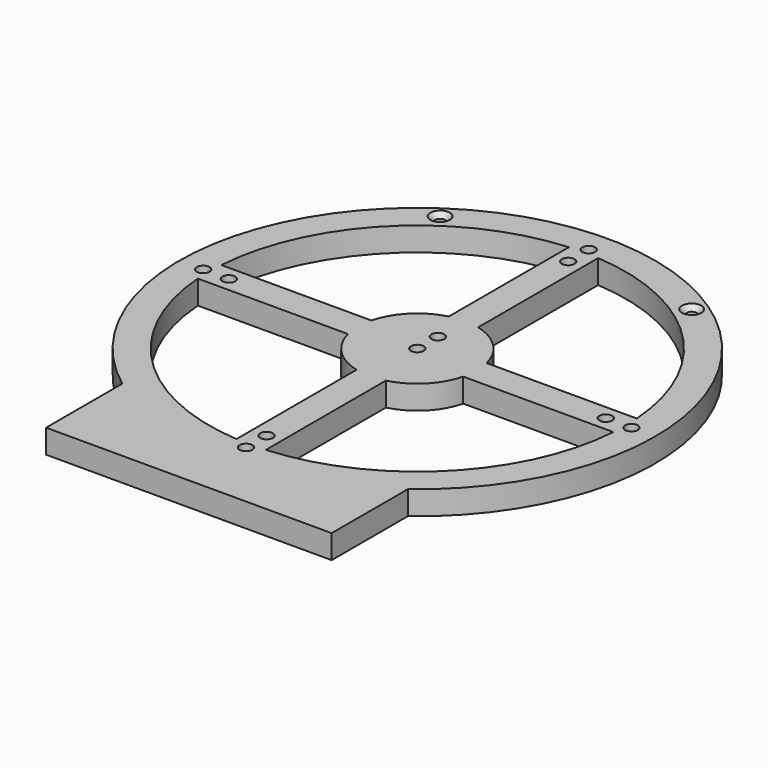
from build123d import *

# Parameters (mm, degrees)
SKETCH_W           = 10
SKETCH_H           = 10
SKETCH_R           = 2.7
PAD_DEPTH          = 10
SKETCH001_R        = 3
POCKET_DEPTH       = 4
SKETCH002_R        = 2.7
PAD001_DEPTH       = 10
POCKET001_DEPTH    = 604.979991
POLARPATTERN_COUNT = 4
SKETCH004_R        = 2.1
POCKET002_DEPTH    = 10.001
CHAMFER_SIZE       = 2


with BuildPart() as led_proto:
    # Sketch → Pad (new body)
    with BuildSketch(Plane.XY):
        Rectangle(SKETCH_W, SKETCH_H)
        Circle(SKETCH_R, mode=Mode.SUBTRACT)
    extrude(amount=PAD_DEPTH)

    # Sketch001 → Pocket (cut)
    with BuildSketch(Plane.XY):
        Circle(SKETCH001_R)
    extrude(amount=POCKET_DEPTH, mode=Mode.SUBTRACT)


with BuildPart() as target:
    # Sketch002 → Pad001 (new body)
    with BuildSketch(Plane.XY):
        with BuildLine():
            Line((-60, -80), (-60, -120))
            Line((-60, -120), (60, -120))
            Line((60, -120), (60, -80))
            ThreePointArc((60, -80), (0, 100), (-60, -80))
        make_face()
        with Locations((-90, 0)):
            Circle(SKETCH002_R, mode=Mode.SUBTRACT)
        with Locations((-79.2, 0)):
            Circle(SKETCH002_R, mode=Mode.SUBTRACT)
        with Locations((0, -90)):
            Circle(SKETCH002_R, mode=Mode.SUBTRACT)
        with Locations((0, -79.2)):
            Circle(SKETCH002_R, mode=Mode.SUBTRACT)
        with Locations((79.2, 0)):
            Circle(SKETCH002_R, mode=Mode.SUBTRACT)
        with Locations((90, 0)):
            Circle(SKETCH002_R, mode=Mode.SUBTRACT)
        with Locations((0, 90)):
            Circle(SKETCH002_R, mode=Mode.SUBTRACT)
        with Locations((0, 79.2)):
            Circle(SKETCH002_R, mode=Mode.SUBTRACT)
        Circle(SKETCH002_R, mode=Mode.SUBTRACT)
        with Locations((0, 10.8)):
            Circle(SKETCH002_R, mode=Mode.SUBTRACT)
    extrude(amount=PAD001_DEPTH)

    # Sketch003 → Pocket001 (cut, through all)
    with BuildSketch(Plane.XY):
        with BuildLine():
            ThreePointArc((24.228072, 6.164459), (17.67767, 17.67767), (6.164459, 24.228072))
            Line((6.164459, 24.228072), (6.164459, 87.282584))
            ThreePointArc((87.282584, 6.164459), (61.871843, 61.871843), (6.164459, 87.282584))
            Line((24.228072, 6.164459), (87.282584, 6.164459))
        make_face()
    pocket001 = extrude(amount=POCKET001_DEPTH, mode=Mode.SUBTRACT)

    # PolarPattern: Pocket001 ×4 about axis
    polarpattern_axis = Axis((0, 0, 0), (0, 0, 1))
    for i in range(1, POLARPATTERN_COUNT):
        add(pocket001.rotate(polarpattern_axis, i * 360 / POLARPATTERN_COUNT), mode=Mode.SUBTRACT)

    # Sketch004 → Pocket002 (cut, through all)
    with BuildSketch(Plane.XY):
        with Locations((52.859089, 78.036148)):
            Circle(SKETCH004_R)
        with Locations((-52.859089, 78.036148)):
            Circle(SKETCH004_R)
    extrude(amount=POCKET002_DEPTH, mode=Mode.SUBTRACT)

    # Chamfer
    chamfer_edges = [target.edges().sort_by_distance(p)[0] for p in [
        (50.759089, 78.036148, 10),
        (-54.959089, 78.036148, 10),
    ]]
    chamfer(chamfer_edges, length=CHAMFER_SIZE)


solid = Compound([led_proto.part, target.part])
